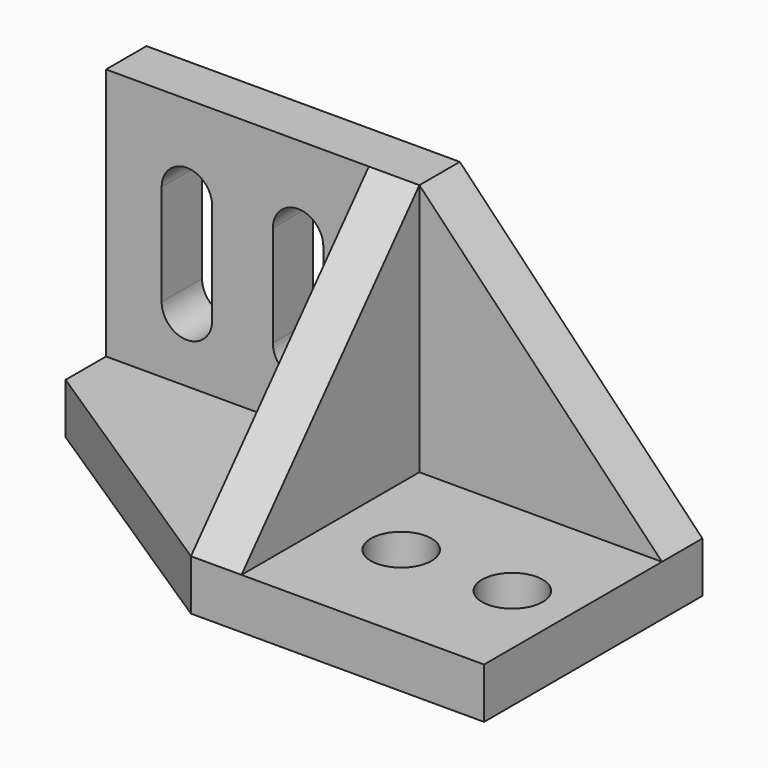
from build123d import *

# Parameters (mm, degrees)
F0_W     = 1219.2
F0_H     = 254
F0_W_2   = 254
F0_H_2   = 1117.6
F0_W_3   = 1320.8
F1_DEPTH = 1524
F0_R     = 152.4
F2_DEPTH = 254
F4_DEPTH = 891.54
F6_DEPTH = 1061.72
F8_DEPTH = 688.34


with BuildPart() as f1:
    # F0 (on Top) → F1 (new body)
    with BuildSketch(Plane.XY):
        with Locations((787.4, 452.5790681571)):
            Rectangle(F0_W, F0_H)
        with Locations((50.8, -233.2209318429)):
            Rectangle(F0_W_2, F0_H_2)
        with Locations((50.8, 452.5790681571)):
            Rectangle(F0_W_2, F0_H)
        with Locations((-736.6, 452.5790681571)):
            Rectangle(F0_W_3, F0_H)
    extrude(amount=F1_DEPTH)

    # F0 (on Top) → F2 (join)
    with BuildSketch(Plane.XY):
        Polygon((-76.2, 325.5790681571), (-1397, 325.5790681571), (-1397, 71.5790681571), (-76.2, -792.0209318429), align=None)
        with Locations((787.4, -233.2209318429)):
            Rectangle(F0_W, F0_H_2)
        with Locations((533.4, -233.2209318429)):
            Circle(F0_R, mode=Mode.SUBTRACT)
        with Locations((1092.2, -233.2209318429)):
            Circle(F0_R, mode=Mode.SUBTRACT)
    extrude(amount=F2_DEPTH)

    # F3 (on face) → F4 (cut)
    with BuildSketch(Plane.XZ.offset(-325.5790681571)):
        Polygon((1397, 1524), (177.8, 1524), (1397, 254), align=None)
    extrude(amount=-F4_DEPTH, mode=Mode.SUBTRACT)

    # F5 (on face) → F6 (cut)
    with BuildSketch(Plane.YZ.offset(177.8)):
        Polygon((-792.0209318429, 254), (325.5790681571, 1524), (-792.0209318429, 1524), align=None)
    extrude(amount=-F6_DEPTH, mode=Mode.SUBTRACT)

    # F7 (on face) → F8 (cut)
    with BuildSketch(Plane.XZ.offset(-325.5790681571)):
        with BuildLine():
            Line((-304.8, 586.0914587975), (-304.8, 1094.0914587975))
            ThreePointArc((-304.8, 1094.0914587975), (-431.8, 1221.0914587975), (-558.8, 1094.0914587975))
            Line((-558.8, 1094.0914587975), (-558.8, 586.0914587975))
            ThreePointArc((-558.8, 586.0914587975), (-431.8, 459.0914587975), (-304.8, 586.0914587975))
        make_face()
        with BuildLine():
            Line((-863.6, 586.0914587975), (-863.6, 1094.0914587975))
            ThreePointArc((-863.6, 1094.0914587975), (-990.6, 1221.0914587975), (-1117.6, 1094.0914587975))
            Line((-1117.6, 1094.0914587975), (-1117.6, 586.0914587975))
            ThreePointArc((-1117.6, 586.0914587975), (-990.6, 459.0914587975), (-863.6, 586.0914587975))
        make_face()
    extrude(amount=-F8_DEPTH, mode=Mode.SUBTRACT)


solid = f1.part
